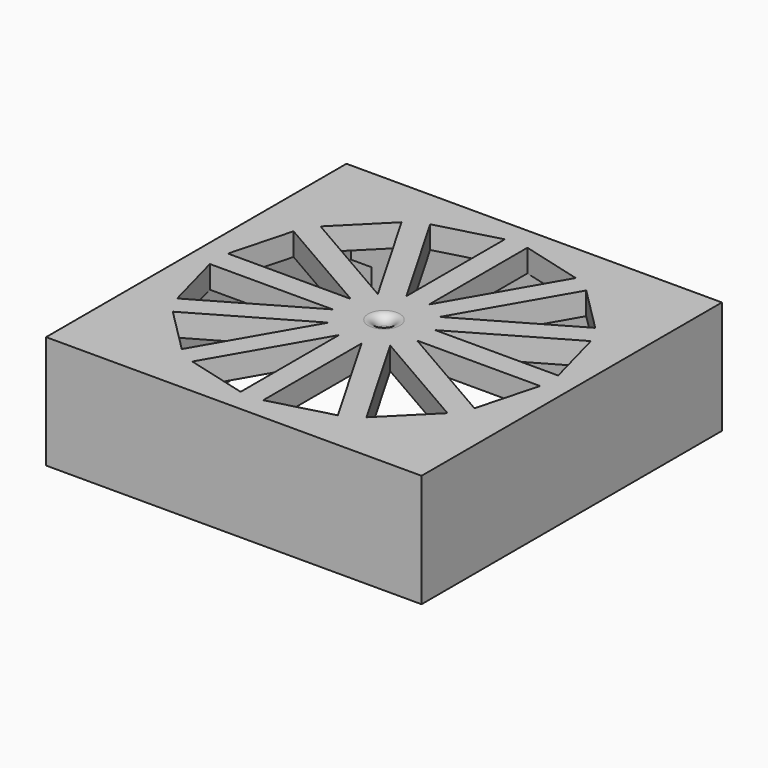
from build123d import *

# Parameters (mm, degrees)
F0_W     = 83
F0_H     = 83
F0_W_2   = 73
F0_H_2   = 73
F1_DEPTH = 20
F4_DEPTH = 10
F5_W     = 83
F5_H     = 83
F5_R     = 1.5
F6_DEPTH = 5
F7_R     = 2


with BuildPart() as f1:
    # F0 (on Top) → F1 (new body)
    with BuildSketch(Plane.XY):
        Rectangle(F0_W, F0_H)
        Rectangle(F0_W_2, F0_H_2, mode=Mode.SUBTRACT)
    extrude(amount=F1_DEPTH)

    # F2: F1 across plane


with BuildPart() as f1_1:
    add(f1.part)
    add(f1.part.mirror(Plane.YZ))

    # F3 (on face) → F4 (cut)
    with BuildSketch(Plane(origin=(0, 0, 0), x_dir=(1, 0, 0), z_dir=(0, 0, -1))):
        Polygon((36.5, 32), (39, 32), (39, 39), (32, 39), (32, 36.5), (36.5, 36.5), align=None)
        Polygon((-39, -32), (-39, -39), (-32, -39), (-32, -36.5), (-36.5, -36.5), (-36.5, -32), align=None)
    extrude(amount=-F4_DEPTH, mode=Mode.SUBTRACT)

    # F5 (on face) → F6 (join)
    with BuildSketch(Plane.XY.offset(20)):
        Rectangle(F5_W, F5_H)
        Polygon((36.5, 2.5), (36.5, -2.5), (36.5, -36.5), (2.5, -36.5), (-2.5, -36.5), (-36.5, -36.5), (-36.5, -2.5), (-36.5, 2.5), (-36.5, 36.5), (-2.5, 36.5), (2.5, 36.5), (36.5, 36.5), align=None, mode=Mode.SUBTRACT)
        Polygon((36.5, -36.5), (36.5, -2.5), (36.5, 2.5), (36.5, 36.5), (2.5, 36.5), (-2.5, 36.5), (-36.5, 36.5), (-36.5, 2.5), (-36.5, -2.5), (-36.5, -36.5), (-2.5, -36.5), (2.5, -36.5), align=None)
        Polygon((-2.5, -9.3301270189), (-2.5, -36.5), (-16.0849364905, -32.8599272381), align=None, mode=Mode.SUBTRACT)
        Polygon((-32.8599272381, -16.0849364905), (-36.5, -2.5), (-9.3301270189, -2.5), align=None, mode=Mode.SUBTRACT)
        Polygon((-6.8301270189, -6.8301270189), (-20.4150635095, -30.3599272381), (-30.3599272381, -20.4150635095), align=None, mode=Mode.SUBTRACT)
        Polygon((16.0849364905, -32.8599272381), (2.5, -36.5), (2.5, -9.3301270189), align=None, mode=Mode.SUBTRACT)
        Polygon((6.8301270189, -6.8301270189), (30.3599272381, -20.4150635095), (20.4150635095, -30.3599272381), align=None, mode=Mode.SUBTRACT)
        Polygon((9.3301270189, -2.5), (36.5, -2.5), (32.8599272381, -16.0849364905), align=None, mode=Mode.SUBTRACT)
        Polygon((-9.3301270189, 2.5), (-36.5, 2.5), (-32.8599272381, 16.0849364905), align=None, mode=Mode.SUBTRACT)
        Polygon((-30.3599272381, 20.4150635095), (-20.4150635095, 30.3599272381), (-6.8301270189, 6.8301270189), align=None, mode=Mode.SUBTRACT)
        Polygon((-16.0849364905, 32.8599272381), (-2.5, 36.5), (-2.5, 9.3301270189), align=None, mode=Mode.SUBTRACT)
        Circle(F5_R, mode=Mode.SUBTRACT)
        Polygon((20.4150635095, 30.3599272381), (30.3599272381, 20.4150635095), (6.8301270189, 6.8301270189), align=None, mode=Mode.SUBTRACT)
        Polygon((32.8599272381, 16.0849364905), (36.5, 2.5), (9.3301270189, 2.5), align=None, mode=Mode.SUBTRACT)
        Polygon((2.5, 9.3301270189), (2.5, 36.5), (16.0849364905, 32.8599272381), align=None, mode=Mode.SUBTRACT)
    extrude(amount=F6_DEPTH)

    # F7
    f7_edges = [f1_1.edges().sort_by_distance(p)[0] for p in [
        (-1.5, 0, 25),
    ]]
    fillet(f7_edges, radius=F7_R)


solid = f1_1.part
